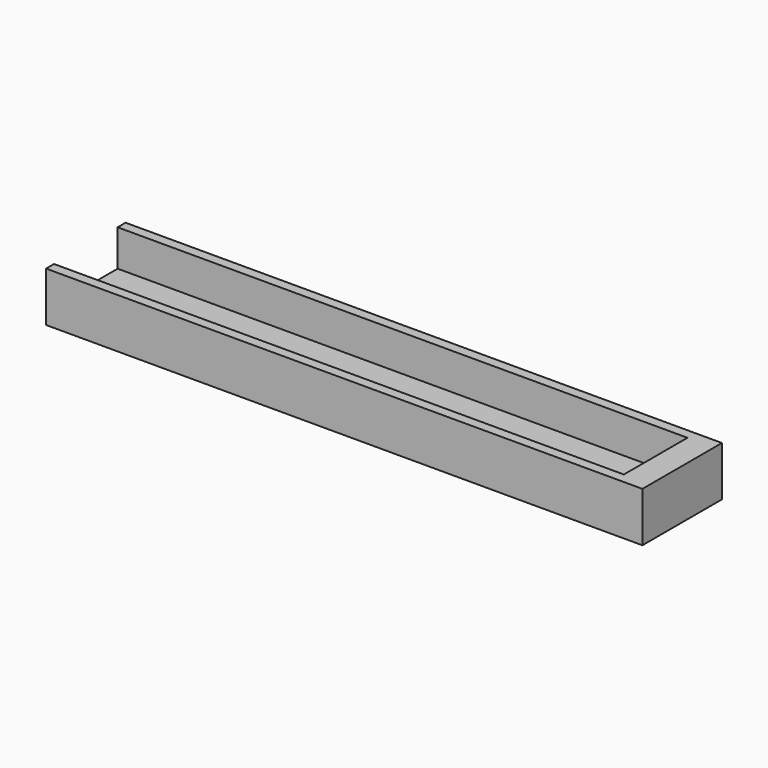
from build123d import *

# Parameters (mm, degrees)
F1_DEPTH = 228.6
F2_DEPTH = 228.6
F3_W     = 10.16
F3_H     = 30.48
F4_DEPTH = 13.97


with BuildPart() as f1:
    # F0 (on Right) → F1 (new body)
    with BuildSketch(Plane.YZ):
        Polygon((-41.518882, 27.023025), (-41.518882, 7.973025), (-3.418882, 7.973025), (-3.418882, 27.023025), (-7.228882, 27.023025), (-7.228882, 13.053025), (-37.708882, 13.053025), (-37.708882, 27.023025), align=None)
    extrude(amount=F1_DEPTH)

    # F0 (on Right) → F2 (join)
    with BuildSketch(Plane.YZ):
        Polygon((-41.518882, 27.023025), (-41.518882, 7.973025), (-3.418882, 7.973025), (-3.418882, 27.023025), (-7.228882, 27.023025), (-7.228882, 13.053025), (-37.708882, 13.053025), (-37.708882, 27.023025), align=None)
    extrude(amount=F2_DEPTH)

    # F3 (on face) → F4 (join)
    with BuildSketch(Plane.XY.offset(13.053025)):
        with Locations((223.52, -22.468882)):
            Rectangle(F3_W, F3_H)
    extrude(amount=F4_DEPTH)


with BuildPart() as f5_1:
    # F5: copy of F1
    add(f1.part)


solid = f1.part
